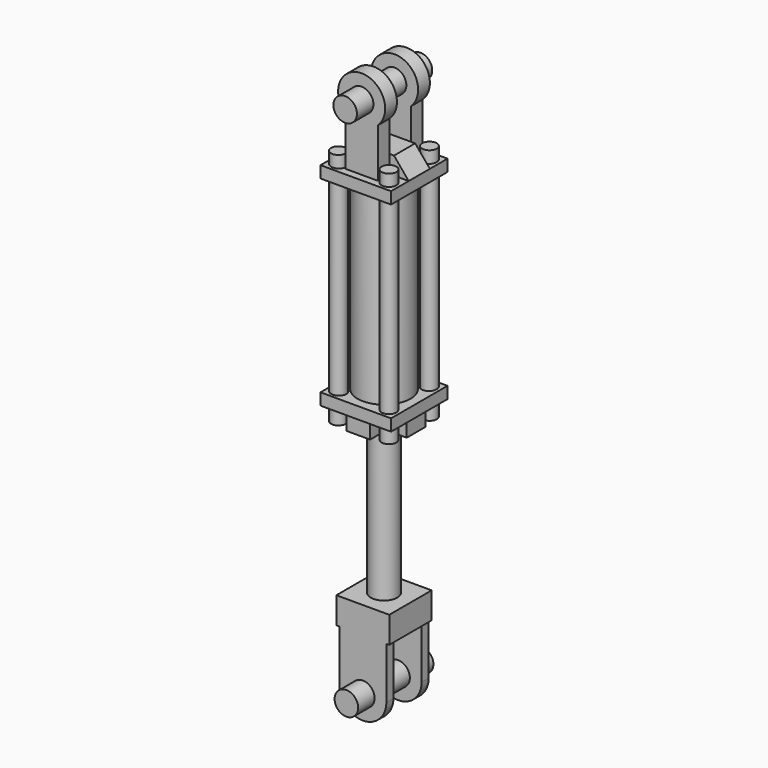
from build123d import *

# Parameters (mm, degrees)
CYLINDER_R             = 12.7
CYLINDER_DEPTH         = 101.6
CYLINDER_ROLL_ANGLE    = 90
SKETCH006_R            = 14.2875
PAD006_DEPTH           = 273.05
SKETCH007_W            = 57.15
SKETCH007_H            = 57.15
PAD007_DEPTH           = 28.575
SKETCH008_R            = 12.7
PAD008_DEPTH           = 9.525
LINEARPATTERN001_COUNT = 2
LINEARPATTERN001_PITCH = 47.625
SKETCH010_R            = 7.9375
PAD010_DEPTH           = 257.175
ARRAY_X_COUNT          = 2
ARRAY_X_PITCH          = 54.61
ARRAY_Y_COUNT          = 2
ARRAY_Y_PITCH          = 54.61
SKETCH_W               = 76.2
SKETCH_H               = 76.2
SKETCH_R               = 7.9375
PAD_DEPTH              = 12.7
PAD001_DEPTH           = 14.2875
SKETCH002_R            = 12.7
PAD002_DEPTH           = 15.875
LINEARPATTERN_COUNT    = 2
LINEARPATTERN_PITCH    = 44.45
SKETCH003_R            = 28.575
SKETCH003_R_2          = 25.4
PAD003_DEPTH           = 203.2
SKETCH004_W            = 76.2
SKETCH004_H            = 76.2
SKETCH004_R            = 7.9375
SKETCH004_R_2          = 25.4
PAD004_DEPTH           = 12.7
SKETCH005_R            = 14.2875
PAD005_DEPTH           = 17.145


with BuildPart() as cylinder:
    # Cylinder → Cylinder (new body)
    with BuildSketch(Plane.XY):
        Circle(CYLINDER_R)
    extrude(amount=CYLINDER_DEPTH)


with BuildPart() as cylinder_1:
    # Cylinder roll: moved
    add(cylinder.part.rotate(Axis((0, 0, 0), (1, 0, 0)), CYLINDER_ROLL_ANGLE))


with BuildPart() as cylinder_2:
    # Cylinder placement: moved
    add(cylinder_1.part.moved(Location((0, -83.82, 83.82))))


with BuildPart() as cylinder001:
    # Clone base: copy of Cylinder
    add(cylinder_2.part)


with BuildPart() as cylinder001_1:
    # Clone placement: moved
    add(cylinder001.part.moved(Location((0, 1.5875, -565.15))))


with BuildPart() as body001:
    # Sketch006 → Pad006 (new body)
    with BuildSketch(Plane.XY):
        Circle(SKETCH006_R)
    extrude(amount=-PAD006_DEPTH)

    # Sketch007 (on Face3 of Pad006) → Pad007 (join)
    with BuildSketch(Plane(origin=(0, 0, -273.05), x_dir=(1, 0, 0), z_dir=(0, 0, -1))):
        Rectangle(SKETCH007_W, SKETCH007_H)
    extrude(amount=-PAD007_DEPTH)

    # Sketch008 (on Face4 of Pad007) → Pad008 (join)
    with BuildSketch(Plane.XZ.offset(28.575)):
        with BuildLine():
            Line((-25.4, -247.65), (25.4, -247.65))
            Line((25.4, -247.65), (25.4, -328.929945))
            ThreePointArc((-25.4, -328.929945), (0, -354.33), (25.4, -328.929945))
            Line((-25.4, -328.929945), (-25.4, -247.65))
        make_face()
        with Locations((0, -328.93)):
            Circle(SKETCH008_R, mode=Mode.SUBTRACT)
    pad008 = extrude(amount=-PAD008_DEPTH)

    # LinearPattern001: Pad008 ×2
    with Locations(*[(0, i * LINEARPATTERN001_PITCH, 0) for i in range(1, LINEARPATTERN001_COUNT)]):
        add(pad008)


with BuildPart() as body001_1:
    # Body001 placement: moved
    add(body001.part.moved(Location((0, 0, -152.4))))


with BuildPart() as array:
    # Sketch010 → Pad010 (new body)
    with BuildSketch(Plane.XY):
        with Locations((26.9875, -26.9875)):
            Circle(SKETCH010_R)
    extrude(amount=-PAD010_DEPTH)

    # Array X: Array ×2


with BuildPart() as array_1:
    add(array.part)
    with Locations(*[(-i * ARRAY_X_PITCH, 0, 0) for i in range(1, ARRAY_X_COUNT)]):
        add(array.part)

    # Array Y: Array ×2


with BuildPart() as array_2:
    add(array_1.part)
    with Locations(*[(0, i * ARRAY_Y_PITCH, 0) for i in range(1, ARRAY_Y_COUNT)]):
        add(array_1.part)


with BuildPart() as array_3:
    # Array placement: moved
    add(array_2.part.moved(Location((0, 0, 25.4))))


with BuildPart() as fusion:
    # Sketch → Pad (new body)
    with BuildSketch(Plane.XY):
        Rectangle(SKETCH_W, SKETCH_H)
        with Locations((-26.9875, 26.9875)):
            Circle(SKETCH_R, mode=Mode.SUBTRACT)
        with Locations((26.9875, 26.9875)):
            Circle(SKETCH_R, mode=Mode.SUBTRACT)
        with Locations((-26.9875, -26.9875)):
            Circle(SKETCH_R, mode=Mode.SUBTRACT)
        with Locations((26.9875, -26.9875)):
            Circle(SKETCH_R, mode=Mode.SUBTRACT)
    extrude(amount=PAD_DEPTH)

    # Sketch001 → Pad001 (join, symmetric)
    with BuildSketch(Plane(origin=(0, 0, 12.7), x_dir=(1, 0, 0), z_dir=(0, -1, 0))):
        Polygon((-38.1, 0), (38.1, 0), (22.225, 19.05), (-22.225, 19.05), align=None)
    extrude(amount=PAD001_DEPTH, both=True)

    # Sketch002 (on Face15 of Pad001) → Pad002 (join)
    with BuildSketch(Plane.XZ.offset(14.2875)):
        with BuildLine():
            Line((-17.4625, 0), (17.4625, 0))
            Line((17.4625, 0), (17.4625, 65.374917))
            ThreePointArc((17.4625, 65.374917), (0, 109.22), (-17.4625, 65.374917))
            Line((-17.4625, 65.374917), (-17.4625, 0))
        make_face()
        with Locations((0, 83.82)):
            Circle(SKETCH002_R, mode=Mode.SUBTRACT)
    pad002 = extrude(amount=PAD002_DEPTH)

    # LinearPattern: Pad002 ×2
    with Locations(*[(0, i * LINEARPATTERN_PITCH, 0) for i in range(1, LINEARPATTERN_COUNT)]):
        add(pad002)

    # Sketch003 (on Face4 of LinearPattern) → Pad003 (join)
    with BuildSketch(Plane(origin=(0, 0, 0), x_dir=(1, 0, 0), z_dir=(0, 0, -1))):
        Circle(SKETCH003_R)
        Circle(SKETCH003_R_2, mode=Mode.SUBTRACT)
    extrude(amount=PAD003_DEPTH)

    # Sketch004 (on Face28 of Pad003) → Pad004 (join)
    with BuildSketch(Plane(origin=(0, 0, -203.2), x_dir=(1, 0, 0), z_dir=(0, 0, -1))):
        Rectangle(SKETCH004_W, SKETCH004_H)
        with Locations((-26.9875, 26.9875)):
            Circle(SKETCH004_R, mode=Mode.SUBTRACT)
        with Locations((26.9875, 26.9875)):
            Circle(SKETCH004_R, mode=Mode.SUBTRACT)
        with Locations((-26.9875, -26.9875)):
            Circle(SKETCH004_R, mode=Mode.SUBTRACT)
        with Locations((26.9875, -26.9875)):
            Circle(SKETCH004_R, mode=Mode.SUBTRACT)
        Circle(SKETCH004_R_2, mode=Mode.SUBTRACT)
    extrude(amount=PAD004_DEPTH)

    # Sketch005 (on Face43 of Pad004) → Pad005 (join)
    with BuildSketch(Plane(origin=(0, 0, -215.9), x_dir=(1, 0, 0), z_dir=(0, 0, -1))):
        with BuildLine():
            ThreePointArc((21.997045, 12.7), (17.960512, 17.960512), (12.7, 21.997045))
            Line((12.7, 34.697045), (12.7, 21.997045))
            Line((-12.7, 34.697045), (12.7, 34.697045))
            Line((-12.7, 21.997045), (-12.7, 34.697045))
            ThreePointArc((-12.7, 21.997045), (-17.960512, 17.960512), (-21.997045, 12.7))
            Line((-34.697045, 12.7), (-21.997045, 12.7))
            Line((-34.697045, -12.7), (-34.697045, 12.7))
            Line((-21.997045, -12.7), (-34.697045, -12.7))
            ThreePointArc((-21.997045, -12.7), (-17.960512, -17.960512), (-12.7, -21.997045))
            Line((-12.7, -21.997045), (-12.7, -47.397045))
            Line((-12.7, -47.397045), (12.7, -47.397045))
            Line((12.7, -47.397045), (12.7, -21.997045))
            ThreePointArc((12.7, -21.997045), (17.960512, -17.960512), (21.997045, -12.7))
            Line((21.997045, -12.7), (34.697045, -12.7))
            Line((34.697045, -12.7), (34.697045, 12.7))
            Line((34.697045, 12.7), (21.997045, 12.7))
        make_face()
        Circle(SKETCH005_R, mode=Mode.SUBTRACT)
    extrude(amount=PAD005_DEPTH)

    # Fusion: union Body001, Array
    add(body001_1.part)
    add(array_3.part)


with BuildPart() as fusion_1:
    # Fusion placement: moved
    add(fusion.part.moved(Location((0, -133.0325, 0))))


with BuildPart() as body003:
    # Fusion001 base: copy of Cylinder
    add(cylinder_2.part)

    # Fusion001: union Cylinder001, Fusion
    add(cylinder001_1.part)
    add(fusion_1.part)


with BuildPart() as body003_1:
    # Body003 placement: moved
    add(body003.part.moved(Location((0, -100, 0))))


solid = body003_1.part
